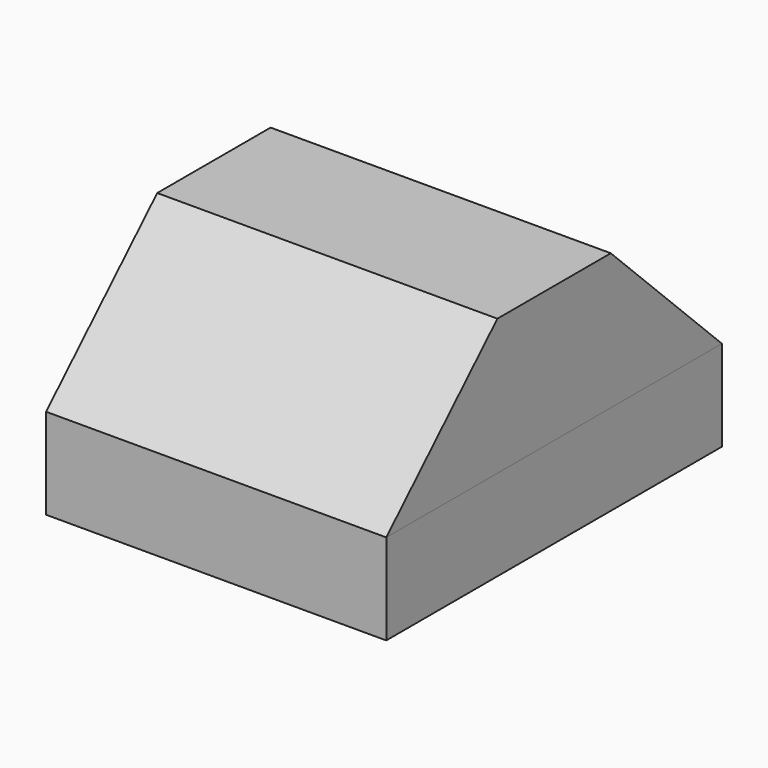
from build123d import *

# Parameters (mm, degrees)
F0_W     = 600
F0_H     = 740
F1_DEPTH = 160
F2_W     = 600
F2_H     = 740
F3_DEPTH = 240
F5_DEPTH = 600.001


with BuildPart() as f1:
    # F0 (on Top) → F1 (new body)
    with BuildSketch(Plane.XY):
        with Locations((-27.062581, 15.200857)):
            Rectangle(F0_W, F0_H)
    extrude(amount=F1_DEPTH)


with BuildPart() as f3:
    # F2 (on face) → F3 (new body)
    with BuildSketch(Plane.XY.offset(160)):
        with Locations((-27.062581, 15.200857)):
            Rectangle(F2_W, F2_H)
    extrude(amount=F3_DEPTH)

    # F4 (on face) → F5 (cut, through all)
    with BuildSketch(Plane.YZ.offset(272.937419)):
        Polygon((-354.799143, 160), (-109.799143, 400), (-354.799143, 400), align=None)
        Polygon((385.200857, 400), (140.200857, 400), (385.200857, 160), align=None)
    extrude(amount=-F5_DEPTH, mode=Mode.SUBTRACT)


solid = Compound([f1.part, f3.part])
